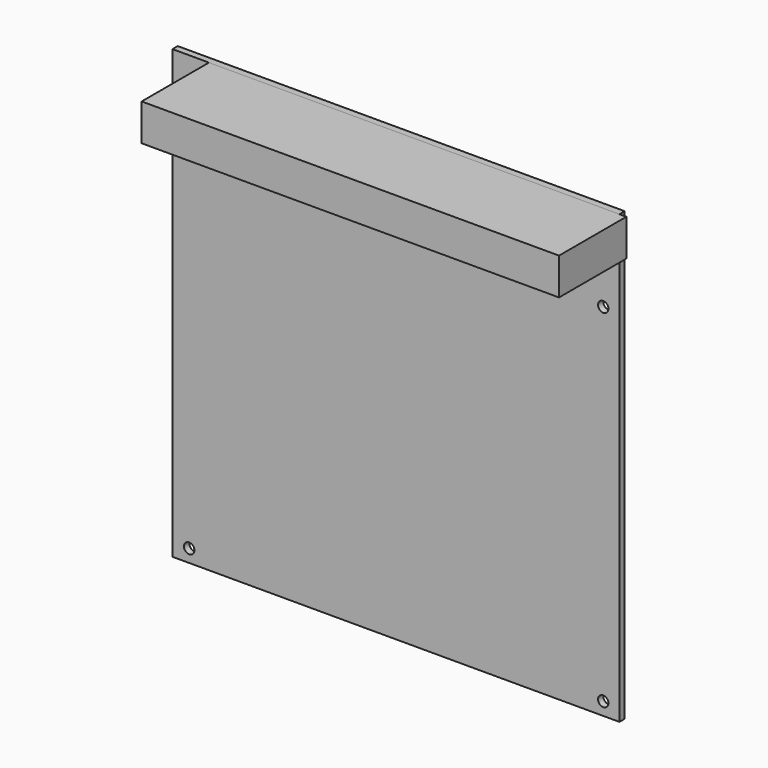
from build123d import *

# Parameters (mm, degrees)
F0_W     = 170
F0_H     = 170
F0_R     = 1.98
F1_DEPTH = 2.5
F2_W     = 158.75
F2_H     = 14.013707
F3_DEPTH = 32


with BuildPart() as f1:
    # F0 (on Front) → F1 (new body)
    with BuildSketch(Plane.XZ):
        Rectangle(F0_W, F0_H)
        with Locations((-78.65, -80.1)):
            Circle(F0_R, mode=Mode.SUBTRACT)
        with Locations((78.83, -80.1)):
            Circle(F0_R, mode=Mode.SUBTRACT)
        with Locations((-78.65, 74.84)):
            Circle(F0_R, mode=Mode.SUBTRACT)
        with Locations((78.83, 51.98)):
            Circle(F0_R, mode=Mode.SUBTRACT)
    extrude(amount=F1_DEPTH)

    # F2 (on face) → F3 (join)
    with BuildSketch(Plane.XZ.offset(2.5)):
        with Locations((8.245, 77.993146)):
            Rectangle(F2_W, F2_H)
    extrude(amount=F3_DEPTH)


solid = f1.part
